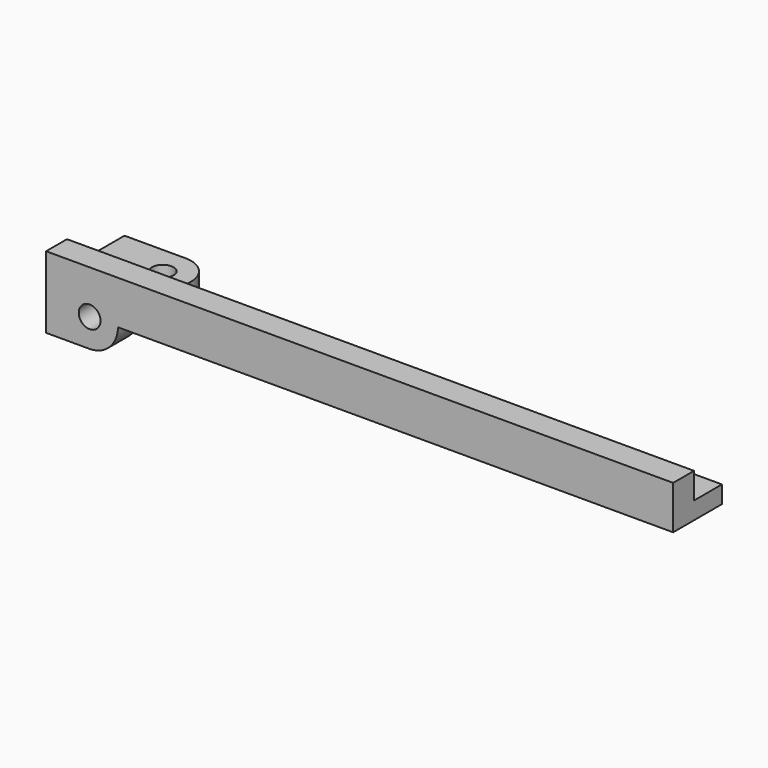
from build123d import *

# Parameters (mm, degrees)
F0_R     = 1.25
F1_DEPTH = 3
F2_W     = 72
F2_H     = 2
F3_DEPTH = 4
F5_DEPTH = 3


with BuildPart() as f1:
    # F0 (on Front) → F1 (new body)
    with BuildSketch(Plane.XZ):
        with BuildLine():
            Line((33.312092313, 76.6384017421), (-25.687907687, 76.6384017421))
            Line((-25.687907687, 76.6384017421), (-31.1261699955, 76.6384017421))
            ThreePointArc((-31.1261699955, 76.6384017421), (-30.6147865133, 75.6959584788), (-30.437907687, 74.6384017421))
            Line((-30.437907687, 74.6384017421), (33.312092313, 74.6384017421))
            Line((33.312092313, 74.6384017421), (33.312092313, 76.6384017421))
        make_face()
        with BuildLine():
            ThreePointArc((-30.437907687, 74.6384017421), (-30.6147865133, 75.6959584788), (-31.1261699955, 76.6384017421))
            Line((-31.1261699955, 76.6384017421), (-36.2496453785, 76.6384017421))
            ThreePointArc((-36.2496453785, 76.6384017421), (-36.6087380484, 73.2131824607), (-33.687907687, 71.3884017421))
            ThreePointArc((-33.687907687, 71.3884017421), (-32.2626884057, 71.7175713807), (-31.1261699955, 72.6384017421))
            ThreePointArc((-31.1261699955, 72.6384017421), (-30.6147865133, 73.5808450054), (-30.437907687, 74.6384017421))
        make_face()
        with Locations((-33.687907687, 74.6384017421)):
            Circle(F0_R, mode=Mode.SUBTRACT)
        with BuildLine():
            ThreePointArc((-33.687907687, 71.3884017421), (-36.6087380484, 73.2131824607), (-36.2496453785, 76.6384017421))
            Line((-36.2496453785, 76.6384017421), (-38.687907687, 76.6384017421))
            Line((-38.687907687, 76.6384017421), (-38.687907687, 71.3884017421))
            Line((-38.687907687, 71.3884017421), (-33.687907687, 71.3884017421))
        make_face()
        with BuildLine():
            Line((-31.1261699955, 76.6384017421), (-25.687907687, 76.6384017421))
            Line((-25.687907687, 76.6384017421), (33.312092313, 76.6384017421))
            Line((33.312092313, 76.6384017421), (33.312092313, 79.6384017421))
            Line((33.312092313, 79.6384017421), (-38.687907687, 79.6384017421))
            Line((-38.687907687, 79.6384017421), (-38.687907687, 76.6384017421))
            Line((-38.687907687, 76.6384017421), (-36.2496453785, 76.6384017421))
            ThreePointArc((-36.2496453785, 76.6384017421), (-33.687907687, 77.8884017421), (-31.1261699955, 76.6384017421))
        make_face()
        with BuildLine():
            Line((-36.2496453785, 76.6384017421), (-31.1261699955, 76.6384017421))
            ThreePointArc((-31.1261699955, 76.6384017421), (-33.687907687, 77.8884017421), (-36.2496453785, 76.6384017421))
        make_face()
    extrude(amount=-F1_DEPTH)

    # F2 (on face) → F3 (join)
    with BuildSketch(Plane(origin=(0, 3, 0), x_dir=(-1, 0, 0), z_dir=(0, 1, 0))):
        with Locations((2.687907687, 75.6384017421)):
            Rectangle(F2_W, F2_H)
    extrude(amount=F3_DEPTH)

    # F4 (on face) → F5 (join)
    with BuildSketch(Plane.XY.offset(76.6384017421)):
        with BuildLine():
            Line((-38.687907687, 7), (-34.7851954552, 7))
            ThreePointArc((-34.7851954552, 7), (-34.3208407412, 9.9121323176), (-31.692866236, 11.25))
            Line((-31.692866236, 11.25), (-38.687907687, 11.25))
            Line((-38.687907687, 11.25), (-38.687907687, 7))
        make_face()
        with BuildLine():
            ThreePointArc((-32.442866236, 7), (-32.2518832303, 9.1180339887), (-30.442866236, 8))
            ThreePointArc((-30.442866236, 8), (-30.5748322472, 7.4409830056), (-30.942866236, 7))
            Line((-30.942866236, 7), (-28.6005370168, 7))
            ThreePointArc((-28.6005370168, 7), (-28.4825259143, 7.4938231349), (-28.442866236, 8))
            ThreePointArc((-28.442866236, 8), (-29.3947691971, 10.2980970389), (-31.692866236, 11.25))
            ThreePointArc((-31.692866236, 11.25), (-34.3208407412, 9.9121323176), (-34.7851954552, 7))
            Line((-34.7851954552, 7), (-32.442866236, 7))
        make_face()
        with BuildLine():
            ThreePointArc((-30.942866236, 7), (-31.692866236, 6.75), (-32.442866236, 7))
            Line((-32.442866236, 7), (-34.7851954552, 7))
            ThreePointArc((-34.7851954552, 7), (-31.692866236, 4.75), (-28.6005370168, 7))
            Line((-28.6005370168, 7), (-30.942866236, 7))
        make_face()
    extrude(amount=-F5_DEPTH)


solid = f1.part
